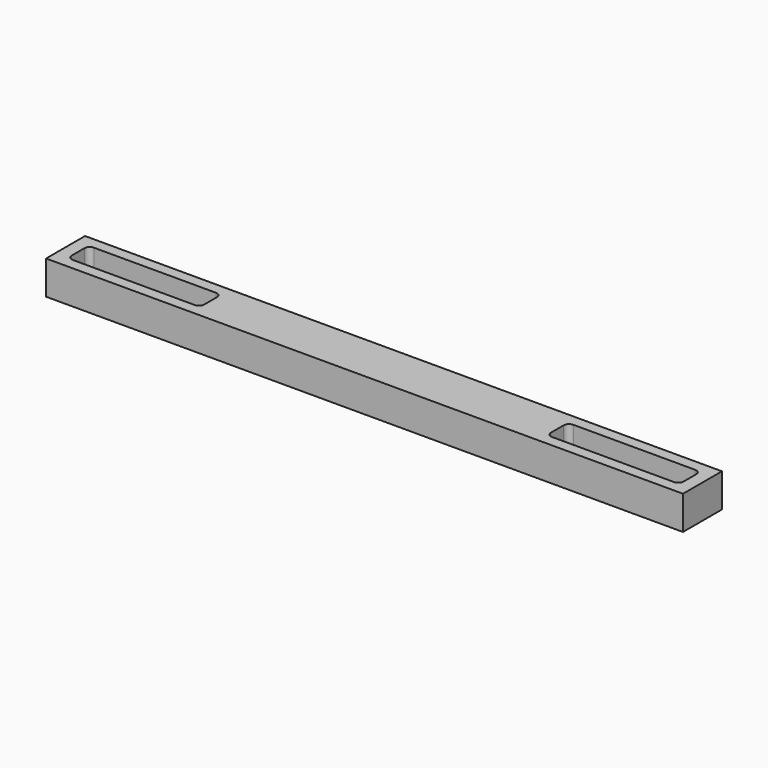
from build123d import *

# Parameters (mm, degrees)
F0_W     = 120.127284
F0_H     = 9.181094
F0_W_2   = 25
F0_H_2   = 5
F1_DEPTH = 6.35
F2_R     = 1


with BuildPart() as f1:
    # F0 (on Top) → F1 (new body)
    with BuildSketch(Plane.XY):
        Rectangle(F0_W, F0_H)
        with Locations((-45.202259, 0)):
            Rectangle(F0_W_2, F0_H_2, mode=Mode.SUBTRACT)
        with Locations((45.202259, 0)):
            Rectangle(F0_W_2, F0_H_2, mode=Mode.SUBTRACT)
    extrude(amount=F1_DEPTH)

    # F2
    f2_edges = [f1.edges().sort_by_distance(p)[0] for p in [
        (-57.702259, 2.5, 3.175),
        (-57.702259, -2.5, 3.175),
        (57.702259, 2.5, 3.175),
        (57.702259, -2.5, 3.175),
        (32.702259, -2.5, 3.175),
        (32.702259, 2.5, 3.175),
        (-32.702259, -2.5, 3.175),
        (-32.702259, 2.5, 3.175),
    ]]
    fillet(f2_edges, radius=F2_R)


solid = f1.part
